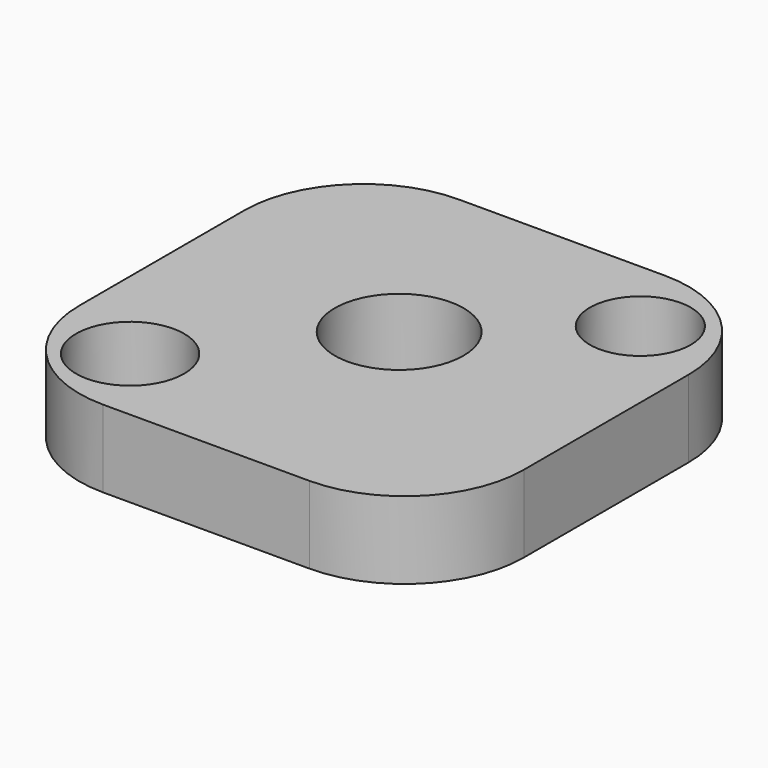
from build123d import *

# Parameters (mm, degrees)
SKETCH_R     = 25
SKETCH_R_2   = 21
SKETCH_R_3   = 19.584537
PAD_DEPTH    = 30
PAD001_DEPTH = 30


with BuildPart() as part:
    # Sketch → Pad (new body)
    with BuildSketch(Plane.XY):
        with BuildLine():
            Line((-35.584206, -63.111127), (44.415794, -63.111127))
            ThreePointArc((44.415794, -63.111127), (77.13309, -49.55918), (90.685038, -16.841884))
            Line((90.685038, -16.841884), (90.685038, 63.158116))
            ThreePointArc((90.685038, 63.158116), (77.13309, 95.875412), (44.415794, 109.427359))
            Line((44.415794, 109.427359), (-35.584206, 109.427359))
            ThreePointArc((-35.584206, 109.427359), (-68.301501, 95.875412), (-81.853449, 63.158116))
            Line((-81.853449, 63.158116), (-81.853449, -16.841884))
            ThreePointArc((-81.853449, -16.841884), (-68.301501, -49.55918), (-35.584206, -63.111127))
        make_face()
        with Locations((4.62833, 30.241158)):
            Circle(SKETCH_R, mode=Mode.SUBTRACT)
        with Locations((-50.106209, -31.898642)):
            Circle(SKETCH_R_2, mode=Mode.SUBTRACT)
        with Locations((59.362869, 78.858307)):
            Circle(SKETCH_R_3, mode=Mode.SUBTRACT)
    extrude(amount=PAD_DEPTH)

    # Sketch → Pad001 (join)
    with BuildSketch(Plane.XY):
        with BuildLine():
            Line((-35.584206, -63.111127), (44.415794, -63.111127))
            ThreePointArc((44.415794, -63.111127), (77.13309, -49.55918), (90.685038, -16.841884))
            Line((90.685038, -16.841884), (90.685038, 63.158116))
            ThreePointArc((90.685038, 63.158116), (77.13309, 95.875412), (44.415794, 109.427359))
            Line((44.415794, 109.427359), (-35.584206, 109.427359))
            ThreePointArc((-35.584206, 109.427359), (-68.301501, 95.875412), (-81.853449, 63.158116))
            Line((-81.853449, 63.158116), (-81.853449, -16.841884))
            ThreePointArc((-81.853449, -16.841884), (-68.301501, -49.55918), (-35.584206, -63.111127))
        make_face()
        with Locations((4.62833, 30.241158)):
            Circle(SKETCH_R, mode=Mode.SUBTRACT)
        with Locations((-50.106209, -31.898642)):
            Circle(SKETCH_R_2, mode=Mode.SUBTRACT)
        with Locations((59.362869, 78.858307)):
            Circle(SKETCH_R_3, mode=Mode.SUBTRACT)
    extrude(amount=PAD001_DEPTH)


solid = part.part
